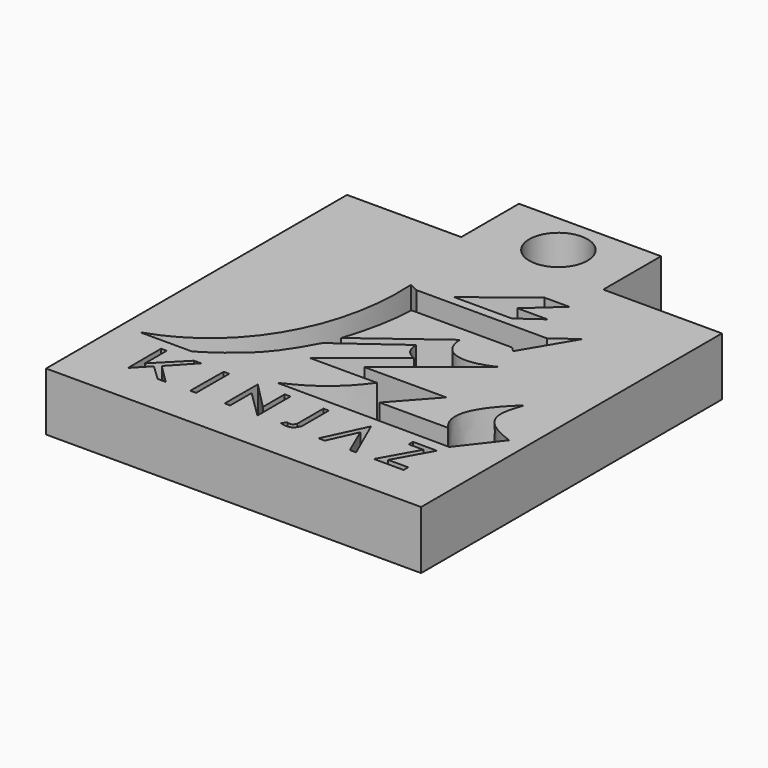
from build123d import *

# Parameters (mm, degrees)
F0_W     = 29.2992349714
F0_H     = 14.8931406438
F0_R     = 6.0048631412
F0_H_2   = 4.8183426261
F1_DEPTH = 12


with BuildPart() as f1:
    # F0 (on Top) → F1 (new body)
    with BuildSketch(Plane.XY):
        with Locations((-39.1167411581, 44.4685835391)):
            Rectangle(F0_W, F0_H)
        with Locations((-38.7403294444, 43.2928875089)):
            Circle(F0_R, mode=Mode.SUBTRACT)
        with Locations((-39.1167411581, 34.6128419042)):
            Rectangle(F0_W, F0_H_2)
        Polygon((-53.7663586438, 37.0220132172), (-77.3156434298, 37.0220132172), (-77.3395821452, -40.5214428902), (0, -40.5214428902), (0, 37.0220132172), (-24.4671236724, 37.0220132172), (-24.4671236724, 32.2036705911), (-53.7663586438, 32.2036705911), align=None)
        Polygon((-67.159412581, -32.1348457524), (-67.1982951041, -23.5573574901), (-66.0232231021, -23.5573574901), (-66.0232231021, -29.1860792786), (-60.445215553, -23.52036722), (-58.9717775583, -23.52036722), (-63.3394643664, -28.2037891448), (-59.3640394509, -32.1531780064), (-61.0216520727, -32.1531780064), (-64.2655640841, -29.080113396), align=None, mode=Mode.SUBTRACT)
        Polygon((-54.3745607138, -32.0733748376), (-54.2933704932, -23.5573574901), (-53.1613752246, -23.5573574901), (-53.1613752246, -32.0733748376), align=None, mode=Mode.SUBTRACT)
        Polygon((-46.1362972856, -32.0704504848), (-47.276455909, -32.0704504848), (-47.2535975277, -23.5573574901), (-41.6997484863, -29.1860792786), (-41.6997484863, -23.5573574901), (-40.5064902602, -23.5573574901), (-40.5064902602, -32.0877228451), (-46.1362972856, -26.5450645238), align=None, mode=Mode.SUBTRACT)
        with BuildLine():
            add(Edge.make_bspline(
                [(-35.9488576651, -31.7970253527), (-33.5259176791, -32.4797704816), (-33.1114083529, -31.5621960908), (-32.6099060476, -30.5001884699)],
                knots=[0, 0, 0, 0, 3.5819525129, 3.5819525129, 3.5819525129, 3.5819525129], degree=3))
            Line((-35.9488576651, -31.7970253527), (-35.2263972163, -30.936172232))
            add(Edge.make_bspline(
                [(-33.7235666811, -30.2251502872), (-33.989623189, -31.0443080962), (-34.4412997365, -31.2153324485), (-35.2263972163, -30.936172232)],
                knots=[0, 0, 0, 0, 1.6625437809, 1.6625437809, 1.6625437809, 1.6625437809], degree=3))
            Line((-33.7235666811, -30.2251502872), (-33.7235666811, -23.5433634371))
            Line((-33.7235666811, -23.5433634371), (-32.6099060476, -23.5433634371))
            Line((-32.6099060476, -23.5433634371), (-32.6099060476, -30.5001884699))
        make_face(mode=Mode.SUBTRACT)
        Polygon((-26.5759304166, -32.1469455957), (-27.8739575297, -32.1469455957), (-23.8643418998, -23.5957931727), (-20.0629122555, -32.1894772351), (-21.3611982763, -32.1894772351), (-23.9209700376, -26.2861810625), align=None, mode=Mode.SUBTRACT)
        Polygon((-10.2736325935, -31.0030188411), (-10.2736325935, -32.1972407401), (-16.4032950997, -32.1946702898), (-12.1941762045, -24.6954783797), (-15.2269415557, -24.6954783797), (-15.2269415557, -23.5953740776), (-10.2736325935, -23.5953740776), (-14.4022190943, -31.0030188411), align=None, mode=Mode.SUBTRACT)
        with BuildLine():
            add(Edge.make_bspline(
                [(-48.1313951313, -5.793298129), (-51.9084185362, -12.8880571574), (-54.6201877296, -16.2256192416), (-62.6786500216, -21.2091294951)],
                knots=[0, 0, 0, 0, 21.1960015463, 21.1960015463, 21.1960015463, 21.1960015463], degree=3))
            Line((-62.6786500216, -21.2091294951), (-73.4323149167, -21.2091294951))
            add(Edge.make_bspline(
                [(-73.4323149167, -21.2091294951), (-57.703204453, -16.1548238248), (-48.5936999321, 0), (-49.6808459371, 19.0024100635)],
                knots=[0, 0, 0, 0, 46.7022503994, 46.7022503994, 46.7022503994, 46.7022503994], degree=3))
            Line((-49.6808459371, 19.0024100635), (-47.7940440178, 18.0804803967))
            Line((-47.7940440178, 18.0804803967), (-20.9154095501, 18.0804803967))
            Line((-20.9154095501, 18.0804803967), (-16.2641759962, 21.4805174619))
            Line((-16.2641759962, 21.4805174619), (-22.3851986229, 11.1733824015))
            Line((-22.3851986229, 11.1733824015), (-23.3154464513, 12.0788225904))
            Line((-23.3154464513, 12.0788225904), (-44.0920963883, 12.0788225904))
            add(Edge.make_bspline(
                [(-44.0920963883, 12.0788225904), (-44.2973412573, 5.6142648682), (-45.9161922336, 0.504262629), (-46.8841008842, -2.5212171022)],
                knots=[0, 0, 0, 0, 14.8646038673, 14.8646038673, 14.8646038673, 14.8646038673], degree=3))
            Line((-46.8841008842, -2.5212171022), (-31.5485745668, 8.9099174365))
            add(Edge.make_bspline(
                [(-31.5485745668, 8.9099174365), (-31.2168560922, 3.058941802), (-25.7437750697, 2.9881331138), (-20.7194462419, 5.4543670267)],
                knots=[0, 0, 0, 0, 11.3670950077, 11.3670950077, 11.3670950077, 11.3670950077], degree=3))
            Line((-20.7194462419, 5.4543670267), (-37.5409174588, -8.1352172419))
            Line((-37.5409174588, -8.1352172419), (-20.7194462419, -8.1352172419))
            Line((-20.7194462419, -8.1352172419), (-27.9845260084, -16.2464901805))
            Line((-27.9845260084, -16.2464901805), (-13.8373728842, -16.2410978228))
            add(Edge.make_bspline(
                [(-13.8373728842, -16.2410978228), (-17.871780321, -12.0312822983), (-13.6970458552, -6.6286842339), (-9.1847963631, -2.4753166363)],
                knots=[0, 0, 0, 0, 14.5307673562, 14.5307673562, 14.5307673562, 14.5307673562], degree=3))
            add(Edge.make_bspline(
                [(-9.1847963631, -2.4753166363), (-10.4274889454, -6.5475832671), (-12.3048676178, -10.4483598843), (-3.4550998826, -13.4620796889)],
                knots=[0, 0, 0, 0, 12.3910606541, 12.3910606541, 12.3910606541, 12.3910606541], degree=3))
            Line((-3.4550998826, -13.4620796889), (-9.5468144864, -21.3348828256))
            Line((-9.5468144864, -21.3348828256), (-45.1452918351, -21.172452718))
            add(Edge.make_bspline(
                [(-45.1452918351, -21.172452718), (-41.3889959455, -19.3084012717), (-37.0229622611, -17.2780938447), (-32.638940055, -11.1317606643)],
                knots=[0, 0, 0, 0, 16.0382147312, 16.0382147312, 16.0382147312, 16.0382147312], degree=3))
            Line((-32.638940055, -11.1317606643), (-46.5337000787, -11.1317606643))
            Line((-46.5337000787, -11.1317606643), (-33.2919247448, -0.691383786))
            add(Edge.make_bspline(
                [(-35.9633229673, 3.0791759491), (-35.7742495835, 2.2057159804), (-35.9496586025, 0.3463805187), (-33.2919247448, -0.691383786)],
                knots=[0, 0, 0, 0, 4.6209835727, 4.6209835727, 4.6209835727, 4.6209835727], degree=3))
            Line((-35.9633229673, 3.0791759491), (-48.1313951313, -5.793298129))
        make_face(mode=Mode.SUBTRACT)
        Polygon((-29.6582430601, 19.9509840459), (-41.5902063251, 19.9509840459), (-30.0995688885, 28.9142616093), (-24.986051023, 28.9142616093), (-31.1850644648, 23.2966467738), (-24.989714846, 23.2966467738), align=None, mode=Mode.SUBTRACT)
    extrude(amount=F1_DEPTH)


solid = f1.part
